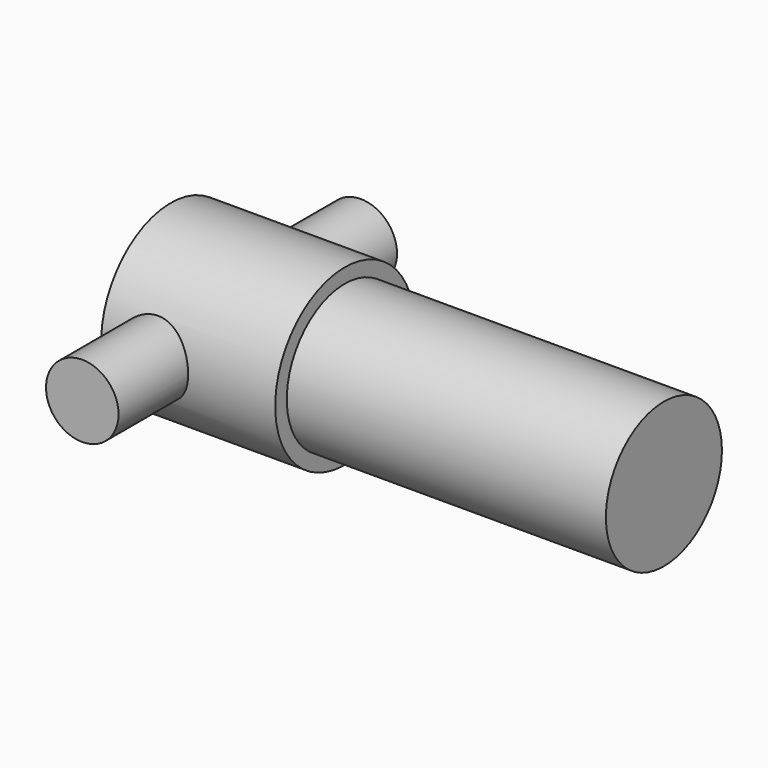
from build123d import *

# Parameters (mm, degrees)
F0_R     = 3
F1_DEPTH = 6
F2_R     = 2.5
F3_DEPTH = 11
F4_R     = 1.25
F5_DEPTH = 6


with BuildPart() as f1:
    # F0 (on Right) → F1 (new body)
    with BuildSketch(Plane.YZ):
        Circle(F0_R)
    extrude(amount=F1_DEPTH)

    # F2 (on face) → F3 (join)
    with BuildSketch(Plane.YZ.offset(6)):
        Circle(F2_R)
    extrude(amount=F3_DEPTH)

    # F4 (on Front) → F5 (join, symmetric)
    with BuildSketch(Plane.XZ):
        with Locations((1.75, 0)):
            Circle(F4_R)
    extrude(amount=F5_DEPTH, both=True)


solid = f1.part
